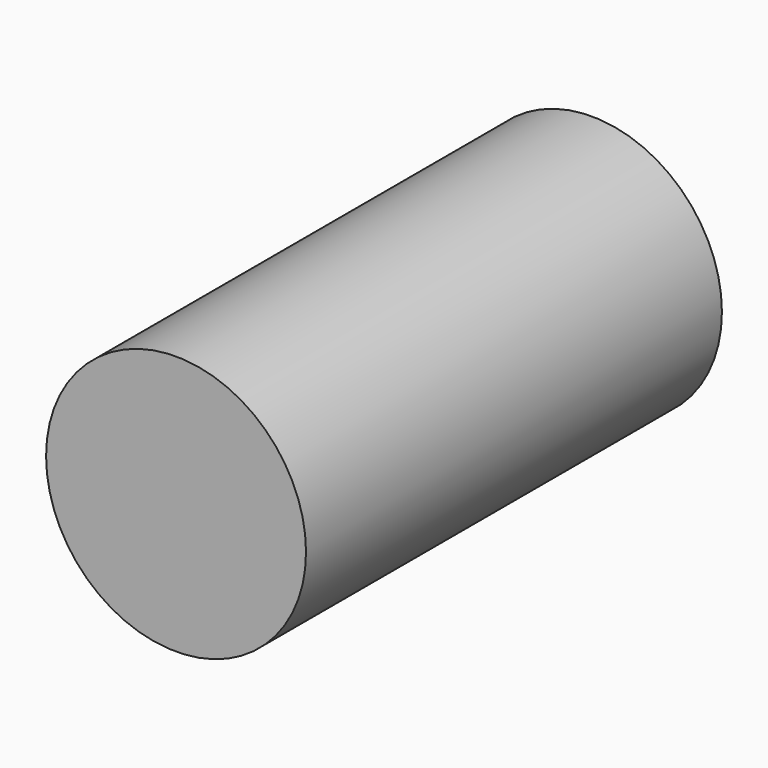
from build123d import *

# Parameters (mm, degrees)
F0_R     = 7.5
F1_DEPTH = 20
F2_DEPTH = 30


with BuildPart() as f1:
    # F0 (on Front) → F1 (new body)
    with BuildSketch(Plane.XZ):
        Circle(F0_R)
    extrude(amount=F1_DEPTH)


with BuildPart() as f2:
    # F0 (on Front) → F2 (new body)
    with BuildSketch(Plane.XZ):
        Circle(F0_R)
    extrude(amount=F2_DEPTH)


solid = Compound([f1.part, f2.part])
